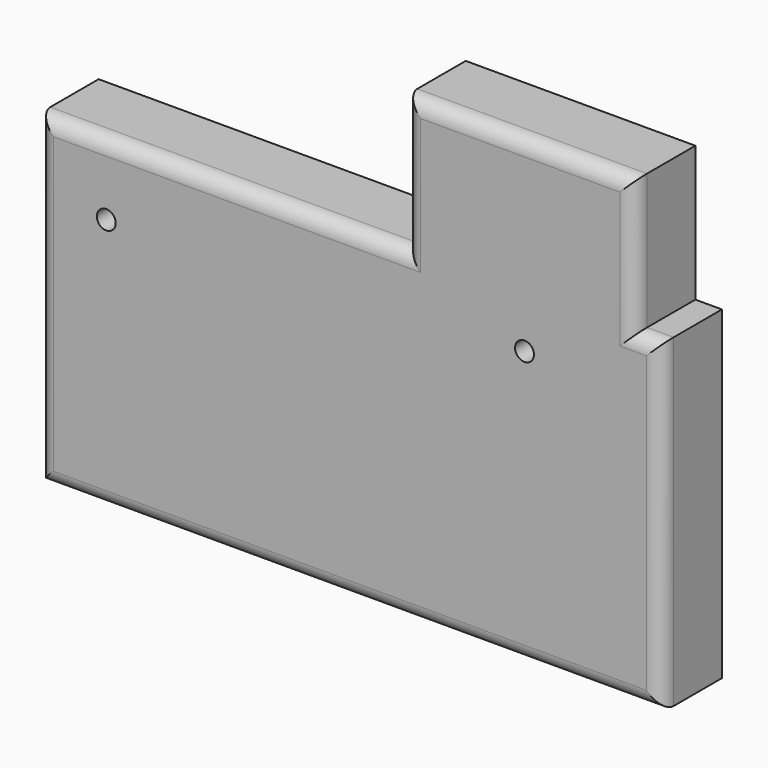
from build123d import *

# Parameters (mm, degrees)
F0_W     = 19.7901576757
F0_H     = 22.3555974662
F1_DEPTH = 25.4
F0_W_2   = 77.2351417691
F0_H_2   = 37.3888155445
F0_W_3   = 14.1860321164
F0_H_3   = 13.0779221654
F2_R     = 5.08
F4_R     = 14.5126216771
F5_DEPTH = 4.064
F7_D     = 6.35


with BuildPart() as f1:
    # F0 (on Front) → F1 (new body)
    with BuildSketch(Plane.XZ):
        Polygon((-143.1801915169, 45.9882542491), (-120.1951056719, 45.9882542491), (-120.1951056719, 68.3438517153), (-120.1951056719, 90.6994491816), (-143.1801915169, 90.6994491816), align=None)
        with Locations((-110.300026834, 79.5216504484)):
            Rectangle(F0_W, F0_H)
    extrude(amount=F1_DEPTH)


with BuildPart() as f1b:
    # F0 (on Front) → F1, piece 2 (new body)
    with BuildSketch(Plane.XZ):
        Polygon((23.0662133545, 45.1301448047), (-100.4049479961, 45.1301448047), (-100.4049479961, -64.0596598387), (109.2333272099, -64.0596598387), (109.2333272099, 45.1301448047), (100.3013551235, 45.1301448047), (100.3013551235, 7.7413292602), (23.0662133545, 7.7413292602), align=None)
        Polygon((23.0662133545, 90.6994491816), (23.0662133545, 45.1301448047), (100.3013551235, 45.1301448047), (100.3013551235, 90.6994491816), (88.216945529, 90.6994491816), (88.216945529, 77.6215270162), (74.0309134126, 77.6215270162), (74.0309134126, 90.6994491816), align=None)
        with Locations((61.683784239, 26.4357370324)):
            Rectangle(F0_W_2, F0_H_2)
        with Locations((81.1239294708, 84.1604880989)):
            Rectangle(F0_W_3, F0_H_3)
    extrude(amount=F1_DEPTH)

    # F2
    f2_edges = [f1b.edges().sort_by_distance(p)[0] for p in [
        (-38.669367, -25.4, 45.130145),
        (-100.404948, -25.4, -9.464758),
        (4.41419, -25.4, -64.05966),
        (109.233327, -25.4, -9.464758),
        (104.767341, -25.4, 45.130145),
        (100.301355, -25.4, 67.914797),
        (61.683784, -25.4, 90.699449),
        (23.066213, -25.4, 67.914797),
    ]]
    fillet(f2_edges, radius=F2_R)

    # F4 (on Front) → F5 (join)
    with BuildSketch(Plane.XZ):
        with Locations((-73.5853686929, -5.0210841)):
            Circle(F4_R)
    extrude(amount=F5_DEPTH)

    # F7 (through all)
    with Locations(Plane.XZ.offset(25.4)):
        with Locations((-77.5153413415, 21.2736316025), (63.1522908807, 28.0912686139)):
            Hole(F7_D / 2)


solid = f1b.part
